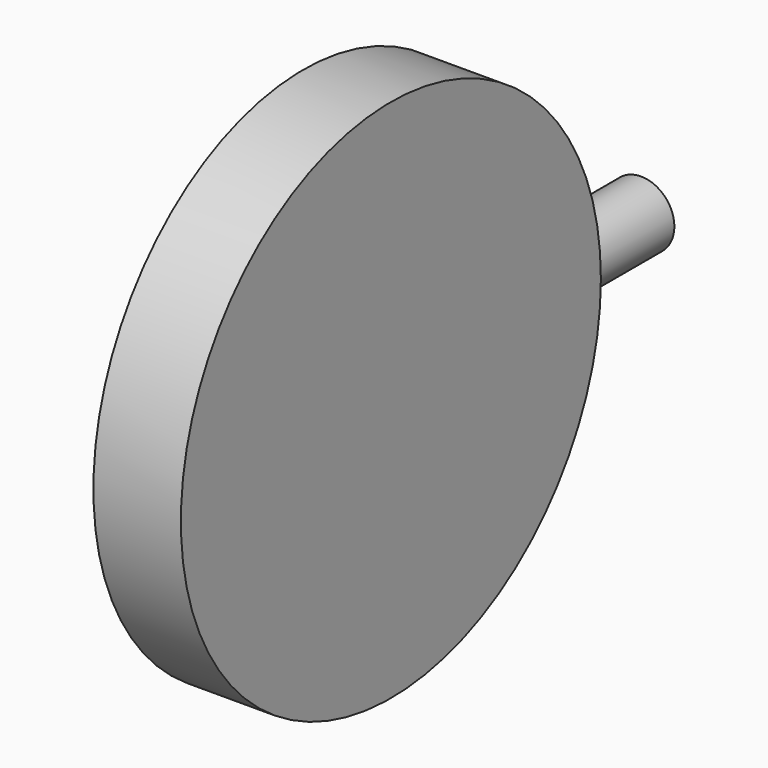
from build123d import *

# Parameters (mm, degrees)
F0_R     = 9.5
F1_DEPTH = 105
F2_R     = 75
F3_DEPTH = 12.5


with BuildPart() as f1:
    # F0 (on Front) → F1 (new body)
    with BuildSketch(Plane.XZ):
        Circle(F0_R)
    extrude(amount=F1_DEPTH)


with BuildPart() as f3:
    # F2 (on Right) → F3 (new body, symmetric)
    with BuildSketch(Plane.YZ):
        with Locations((-105, 0)):
            Circle(F2_R)
    extrude(amount=F3_DEPTH, both=True)


solid = Compound([f1.part, f3.part])
